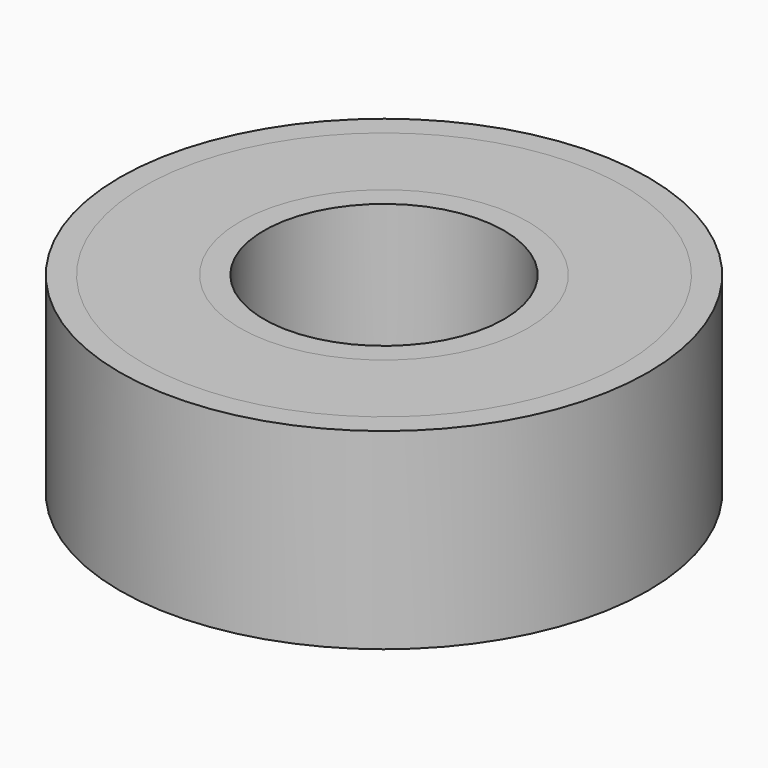
from build123d import *

# Parameters (mm, degrees)
F0_R     = 5.5
F0_R_2   = 2.5
F1_DEPTH = 4
F2_R     = 5
F2_R_2   = 3
F3_DEPTH = 4.001
F4_R     = 5
F4_R_2   = 3
F5_DEPTH = 4


with BuildPart() as f1:
    # F0 (on Top) → F1 (new body)
    with BuildSketch(Plane.XY):
        Circle(F0_R)
        Circle(F0_R_2, mode=Mode.SUBTRACT)
    extrude(amount=F1_DEPTH)

    # F2 (on face) → F3 (cut, through all)
    with BuildSketch(Plane.XY.offset(4)):
        Circle(F2_R)
        Circle(F2_R_2, mode=Mode.SUBTRACT)
    extrude(amount=-F3_DEPTH, mode=Mode.SUBTRACT)


with BuildPart() as f5:
    # F4 (on face) → F5 (new body)
    with BuildSketch(Plane.XY.offset(4)):
        Circle(F4_R)
        Circle(F4_R_2, mode=Mode.SUBTRACT)
    extrude(amount=-F5_DEPTH)


solid = Compound([f1.part, f5.part])
